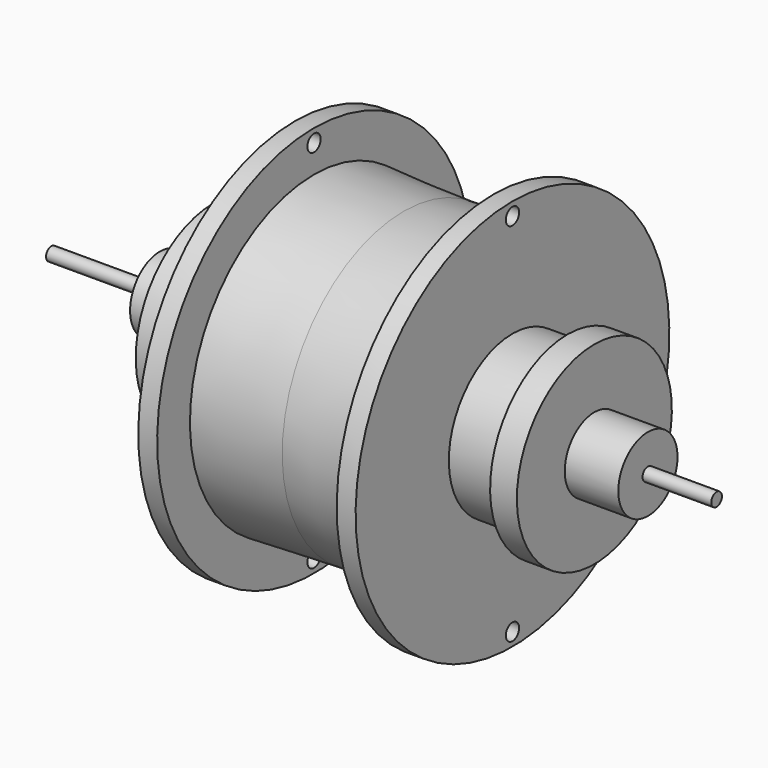
from build123d import *

# Parameters (mm, degrees)
F0_R     = 5.088383
F1_DEPTH = 508
F4_R     = 6.35
F5_DEPTH = 508.001


with BuildPart() as f1:
    # F0 (on Right) → F1 (new body)
    with BuildSketch(Plane.YZ):
        Circle(F0_R)
    extrude(amount=F1_DEPTH)

    # F2 (on Front) → F3 (revolve)
    with BuildSketch(Plane.XZ):
        Polygon((82.693815, 28.264971), (82.693815, 0), (455.550849, 0), (455.550849, 28.264971), (414.656855, 28.264971), (414.656855, 73.970035), (394.209847, 73.970035), (394.209847, 60.739622), (352.113083, 60.739622), (352.113083, 149.744213), (337.679908, 149.744213), (337.679908, 118.47233), (269.122332, 116.066799), (200.564757, 118.47233), (200.564757, 149.744213), (186.131582, 149.744213), (186.131582, 60.739622), (144.034818, 60.739622), (144.034818, 73.970035), (123.58781, 73.970035), (123.58781, 28.264971), align=None)
    revolve(axis=Axis((269.122332, 0, 0), (1, 0, 0)))

    # F4 (on Right) → F5 (cut, through all)
    with BuildSketch(Plane.YZ):
        with Locations((0, 139.7)):
            Circle(F4_R)
        with Locations((0, -139.7)):
            Circle(F4_R)
    extrude(amount=F5_DEPTH, mode=Mode.SUBTRACT)


solid = f1.part
